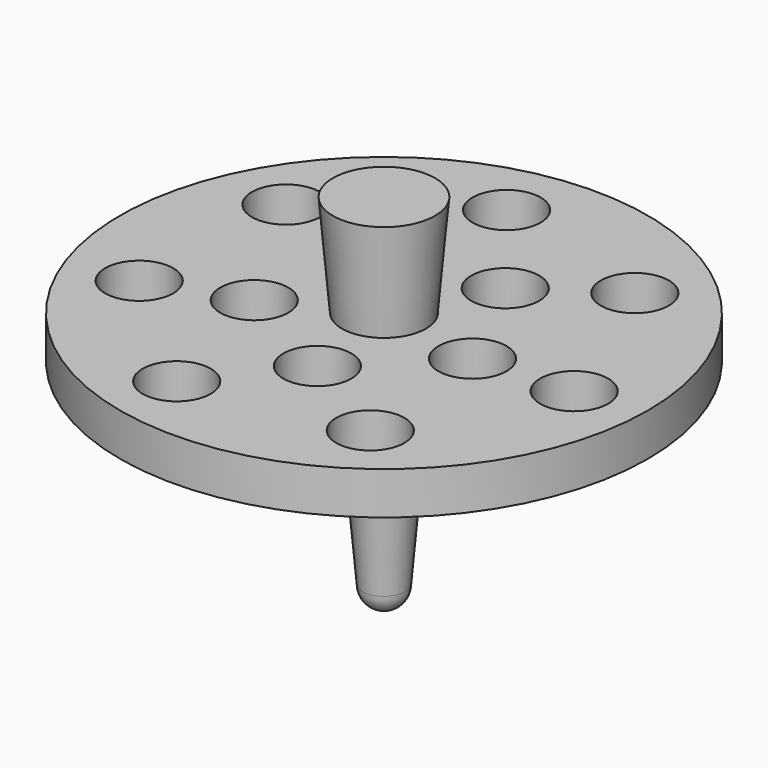
from build123d import *

# Parameters (mm, degrees)
CYLINDER001_R     = 1
CYLINDER001_DEPTH = 20
CYLINDER003_R     = 4
CYLINDER003_DEPTH = 20
ARRAY001_COUNT    = 7
CYLINDER002_R     = 4
CYLINDER002_DEPTH = 20
ARRAY_COUNT       = 5
CYLINDER_R        = 31
CYLINDER_DEPTH    = 5


with BuildPart() as esfera:
    # Sphere → Sphere (revolve)
    with BuildSketch(Plane.XZ):
        with BuildLine():
            ThreePointArc((0, -2.5), (2.5, 0), (0, 2.5))
            Line((0, 2.5), (0, -2.5))
        make_face()
    revolve(axis=Axis((0, 0, 0), (0, 0, 1)))


with BuildPart() as obj1:
    # Cone → Cone (revolve)
    with BuildSketch(Plane.XZ):
        Polygon((0, 0), (2.5, 0), (6, 40), (0, 40), align=None)
    revolve(axis=Axis((0, 0, 0), (0, 0, 1)))

    # Fusion: union Esfera
    add(esfera.part)


with BuildPart() as obj1_1:
    # Fusion placement: moved
    add(obj1.part.moved(Location((0, 0, -23))))


with BuildPart() as obj2:
    # Cylinder001 → Cylinder001 (new body)
    with BuildSketch(Plane.XY.offset(-7)):
        Circle(CYLINDER001_R)
    extrude(amount=CYLINDER001_DEPTH)


with BuildPart() as array_exterior:
    # Cylinder003 → Cylinder003 (new body)
    with BuildSketch(Plane(origin=(-4, 23, 0), x_dir=(1, 0, 0), z_dir=(0, 0, 1))):
        Circle(CYLINDER003_R)
    extrude(amount=CYLINDER003_DEPTH)

    # Array001: Array Exterior ×7 about axis
    array001_axis = Axis((0, 0, 0), (0, 0, 1))


with BuildPart() as array_exterior_1:
    add(array_exterior.part)
    for i in range(1, ARRAY001_COUNT):
        add(array_exterior.part.rotate(array001_axis, i * 360 / ARRAY001_COUNT))


with BuildPart() as array_exterior_2:
    # Array001 placement: moved
    add(array_exterior_1.part.moved(Location((0, 0, -7))))


with BuildPart() as array:
    # Cylinder002 → Cylinder002 (new body)
    with BuildSketch(Plane(origin=(12, -2, -7), x_dir=(1, 0, 0), z_dir=(0, 0, 1))):
        Circle(CYLINDER002_R)
    extrude(amount=CYLINDER002_DEPTH)

    # Array: Array ×5 about axis
    array_axis = Axis((0, 0, 0), (0, 0, 1))


with BuildPart() as array_1:
    add(array.part)
    for i in range(1, ARRAY_COUNT):
        add(array.part.rotate(array_axis, i * 360 / ARRAY_COUNT))


with BuildPart() as cut003:
    # Cylinder → Cylinder (new body)
    with BuildSketch(Plane.XY):
        Circle(CYLINDER_R)
    extrude(amount=CYLINDER_DEPTH)

    # Cut: cut Array
    add(array_1.part, mode=Mode.SUBTRACT)

    # Cut001: cut Array Exterior
    add(array_exterior_2.part, mode=Mode.SUBTRACT)

    # Cut002: cut obj2
    add(obj2.part, mode=Mode.SUBTRACT)

    # Cut003: cut obj1
    add(obj1_1.part, mode=Mode.SUBTRACT)


with BuildPart() as esfera001:
    # Sphere001 → Sphere001 (revolve)
    with BuildSketch(Plane.XZ):
        with BuildLine():
            ThreePointArc((0, -2.5), (2.5, 0), (0, 2.5))
            Line((0, 2.5), (0, -2.5))
        make_face()
    revolve(axis=Axis((0, 0, 0), (0, 0, 1)))


with BuildPart() as obj3:
    # Cone001 → Cone001 (revolve)
    with BuildSketch(Plane.XZ):
        Polygon((0, 0), (2.5, 0), (6, 40), (0, 40), align=None)
    revolve(axis=Axis((0, 0, 0), (0, 0, 1)))

    # Fusion001: union Esfera001
    add(esfera001.part)


with BuildPart() as obj3_1:
    # Fusion001 placement: moved
    add(obj3.part.moved(Location((0, 0, -23))))


solid = Compound([cut003.part, obj3_1.part])
